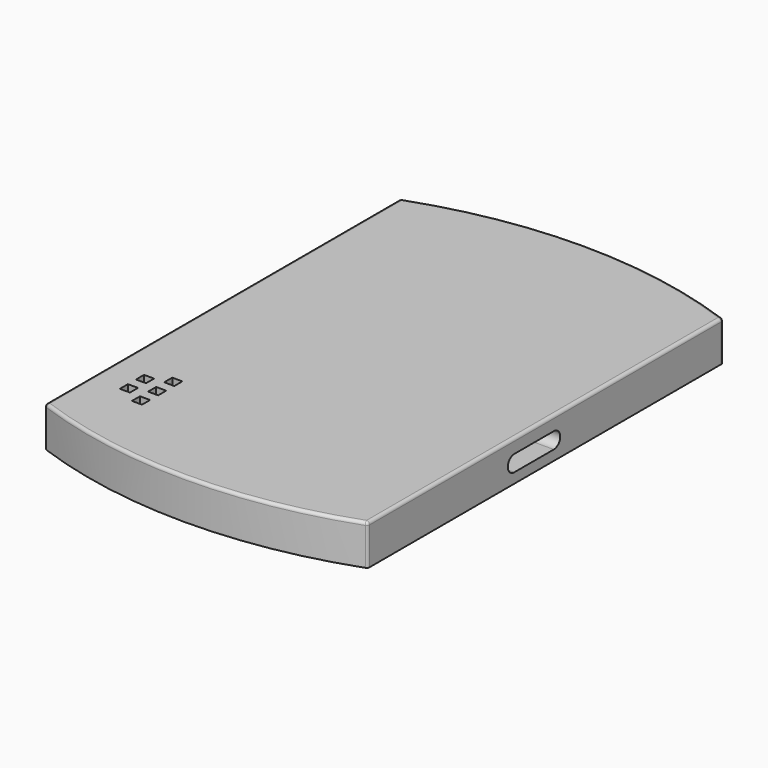
from build123d import *

# Parameters (mm, degrees)
PAD_DEPTH       = 4
POCKET003_DEPTH = 3
POCKET004_DEPTH = 32.001
SKETCH012_W     = 3.1
SKETCH012_H     = 2
POCKET006_DEPTH = 1
SKETCH013_W     = 2.1
SKETCH013_H     = 2
POCKET007_DEPTH = 1
SKETCH014_W     = 2.1
SKETCH014_H     = 2
POCKET008_DEPTH = 1
SKETCH016_W     = 1
SKETCH016_H     = 1
POCKET009_DEPTH = 2
SKETCH018_W     = 1
SKETCH018_H     = 1
POCKET010_DEPTH = 1
SKETCH021_R     = 12
POCKET011_DEPTH = 0.2
SKETCH024_W     = 1.35
SKETCH024_H     = 1.1
SKETCH024_W_2   = 1.1
SKETCH024_H_2   = 1.35
POCKET012_DEPTH = 1.2
BOX009_W        = 1
BOX009_H        = 8
BOX009_DEPTH    = 3
BOX010_W        = 6
BOX010_H        = 1
BOX010_DEPTH    = 3
BOX008_W        = 6
BOX008_H        = 1
BOX008_DEPTH    = 3
PAD007_DEPTH    = 1
FILLET_R        = 0.3
FILLET009_R     = 0.3


with BuildPart() as pocket012:
    # Sketch001 → Pad (new body)
    with BuildSketch(Plane(origin=(13.75, 21, 0), x_dir=(1, 0, 0), z_dir=(0, 0, 1))):
        with BuildLine():
            ThreePointArc((16, 22), (0, 24.8188), (-16, 22))
            Line((-16, 22), (-16, -22))
            ThreePointArc((-16, -22), (0, -24.8188), (16, -22))
            Line((16, -22), (16, 22))
        make_face()
    extrude(amount=PAD_DEPTH)

    # Sketch005 → Pocket003 (cut)
    with BuildSketch(Plane(origin=(13.75, 21, 0), x_dir=(1, 0, 0), z_dir=(0, 0, -1))):
        with BuildLine():
            Line((14, 21.25), (14, -21.25))
            Line((8.799858, -21.25), (14, -21.25))
            ThreePointArc((-8.799858, -21.25), (0, -23), (8.799858, -21.25))
            Line((-8.799858, -21.25), (-14, -21.25))
            Line((-14, -21.25), (-14, 21.25))
            Line((-14, 21.25), (-8.799858, 21.25))
            ThreePointArc((-3, 22.803509), (-5.950841, 22.216829), (-8.799858, 21.25))
            Line((3, 22.803509), (-3, 22.803509))
            ThreePointArc((8.799858, 21.25), (5.950841, 22.216829), (3, 22.803509))
            Line((8.799858, 21.25), (14, 21.25))
        make_face()
    extrude(amount=-POCKET003_DEPTH, mode=Mode.SUBTRACT)

    # Sketch007 → Pocket004 (cut, through all)
    with BuildSketch(Plane(origin=(-2.25, 21, 0), x_dir=(0, -1, 0), z_dir=(-1, 0, 0))):
        with BuildLine():
            ThreePointArc((-1.05, 2.6), (-1.85, 1.8), (-1.05, 1))
            Line((-1.05, 1), (3.85, 1))
            ThreePointArc((3.85, 1), (4.65, 1.8), (3.85, 2.6))
            Line((-1.05, 2.6), (3.85, 2.6))
        make_face()
    extrude(amount=-POCKET004_DEPTH, mode=Mode.SUBTRACT)

    # Sketch012 → Pocket006 (cut)
    with BuildSketch(Plane(origin=(13.75, -1.803509, 0), x_dir=(-1, 0, 0), z_dir=(0, 1, 0))):
        with Locations((0, 2)):
            Rectangle(SKETCH012_W, SKETCH012_H)
    extrude(amount=-POCKET006_DEPTH, mode=Mode.SUBTRACT)

    # Sketch013 → Pocket007 (cut)
    with BuildSketch(Plane(origin=(-0.25, 21, 0), x_dir=(0, 1, 0), z_dir=(1, 0, 0))):
        with Locations((20, 2)):
            Rectangle(SKETCH013_W, SKETCH013_H)
    extrude(amount=-POCKET007_DEPTH, mode=Mode.SUBTRACT)

    # Sketch014 → Pocket008 (cut)
    with BuildSketch(Plane(origin=(27.75, 21, 0), x_dir=(0, -1, 0), z_dir=(-1, 0, 0))):
        with Locations((-20, 2)):
            Rectangle(SKETCH014_W, SKETCH014_H)
    extrude(amount=-POCKET008_DEPTH, mode=Mode.SUBTRACT)

    # Sketch016 → Pocket009 (cut)
    with BuildSketch(Plane(origin=(-2.25, 21, 0), x_dir=(0, -1, 0), z_dir=(-1, 0, 0))):
        with Locations((13, 2)):
            Rectangle(SKETCH016_W, SKETCH016_H)
        with Locations((15, 2)):
            Rectangle(SKETCH016_W, SKETCH016_H)
        with Locations((17, 2)):
            Rectangle(SKETCH016_W, SKETCH016_H)
    extrude(amount=-POCKET009_DEPTH, mode=Mode.SUBTRACT)

    # Sketch018 → Pocket010 (cut)
    with BuildSketch(Plane(origin=(13.75, 21, 4), x_dir=(1, 0, 0), z_dir=(0, 0, 1))):
        with Locations((-10.5, -13)):
            Rectangle(SKETCH018_W, SKETCH018_H)
        with Locations((-10.5, -15)):
            Rectangle(SKETCH018_W, SKETCH018_H)
        with Locations((-10.5, -17)):
            Rectangle(SKETCH018_W, SKETCH018_H)
        with Locations((-12.5, -14)):
            Rectangle(SKETCH018_W, SKETCH018_H)
        with Locations((-12.5, -16)):
            Rectangle(SKETCH018_W, SKETCH018_H)
    extrude(amount=-POCKET010_DEPTH, mode=Mode.SUBTRACT)

    # Sketch021 → Pocket011 (cut)
    with BuildSketch(Plane(origin=(13.75, 21, 3), x_dir=(1, 0, 0), z_dir=(0, 0, -1))):
        with Locations((0, -10.5)):
            Circle(SKETCH021_R)
    extrude(amount=-POCKET011_DEPTH, mode=Mode.SUBTRACT)

    # Sketch024 → Pocket012 (cut)
    with BuildSketch(Plane(origin=(13.75, 21, 0), x_dir=(1, 0, 0), z_dir=(0, 0, -1))):
        with Locations((-9.55, 21.8)):
            Rectangle(SKETCH024_W, SKETCH024_H)
        with Locations((9.45, 21.8)):
            Rectangle(SKETCH024_W, SKETCH024_H)
        with Locations((-14.55, -16.4)):
            Rectangle(SKETCH024_W_2, SKETCH024_H_2)
        with Locations((14.55, -16.4)):
            Rectangle(SKETCH024_W_2, SKETCH024_H_2)
    extrude(amount=-POCKET012_DEPTH, mode=Mode.SUBTRACT)


with BuildPart() as box009:
    # Box009 → Box009 (new body)
    with BuildSketch(Plane(origin=(5.5, 2, 0), x_dir=(1, 0, 0), z_dir=(0, 0, 1))):
        with Locations((0.5, 4)):
            Rectangle(BOX009_W, BOX009_H)
    extrude(amount=BOX009_DEPTH)


with BuildPart() as box010:
    # Box010 → Box010 (new body)
    with BuildSketch(Plane(origin=(-0.5, 2, 0), x_dir=(1, 0, 0), z_dir=(0, 0, 1))):
        with Locations((3, 0.5)):
            Rectangle(BOX010_W, BOX010_H)
    extrude(amount=BOX010_DEPTH)


with BuildPart() as fusion013:
    # Box008 → Box008 (new body)
    with BuildSketch(Plane(origin=(-0.5, 9, 0), x_dir=(1, 0, 0), z_dir=(0, 0, 1))):
        with Locations((3, 0.5)):
            Rectangle(BOX008_W, BOX008_H)
    extrude(amount=BOX008_DEPTH)

    # Fusion012: union Box009, Box010
    add(box009.part)
    add(box010.part)

    # Fusion013: union Pocket012
    add(pocket012.part)


with BuildPart() as fillet009:
    # Sketch025 → Pad007 (new body)
    with BuildSketch(Plane(origin=(13.5, 1, 0), x_dir=(1, 0, 0), z_dir=(0, 0, 1))):
        with BuildLine():
            ThreePointArc((5, 48), (0, 48.266714), (-5, 48))
            Line((-5, 48), (-5, 44))
            Line((-5, 44), (-3.5, 44))
            Line((-3.5, 47), (-3.5, 44))
            ThreePointArc((3.5, 47), (0, 47.130139), (-3.5, 47))
            Line((3.5, 44), (3.5, 47))
            Line((5, 44), (3.5, 44))
            Line((5, 48), (5, 44))
        make_face()
    extrude(amount=PAD007_DEPTH)

    # Fusion014: union Fusion013
    add(fusion013.part)

    # Fillet
    fillet_edges = [fillet009.edges().sort_by_distance(p)[0] for p in [
        (13.75, 45.8188, 4),
        (29.75, 21, 4),
        (29.75, 43, 2),
        (18.5, 47.28861, 1),
        (13.5, 49.266714, 1),
        (8.5, 47.261758, 1),
        (10, 46.834189, 1),
        (13.5, 48.130139, 1),
        (17, 46.852931, 1),
        (-2.25, 43, 2),
        (-2.25, 21, 4),
        (-2.25, -1, 2),
        (13.75, -3.8188, 4),
        (29.75, -1, 2),
    ]]
    fillet(fillet_edges, radius=FILLET_R)

    # Fillet009
    fillet009_edges = [fillet009.edges().sort_by_distance(p)[0] for p in [
        (8.5, 49, 0.35),
        (18.5, 49, 0.35),
    ]]
    fillet(fillet009_edges, radius=FILLET009_R)


solid = fillet009.part
